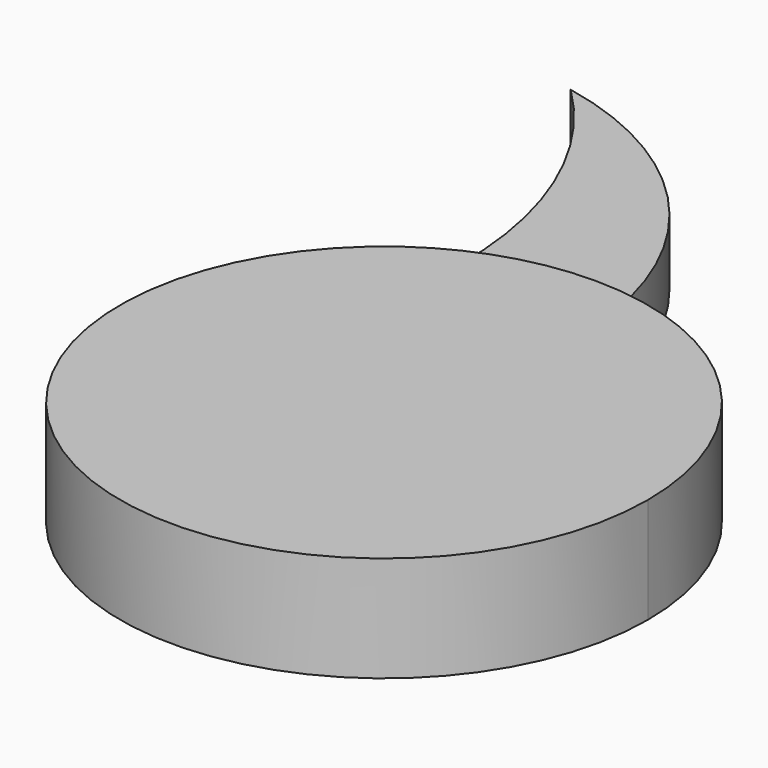
from build123d import *

# Parameters (mm, degrees)
F1_DEPTH = 10.16
F2_DEPTH = 6.35


with BuildPart() as f1:
    # F0 (on Top) → F1 (new body)
    with BuildSketch(Plane.XY):
        with BuildLine():
            ThreePointArc((-14.726522, 20.695158), (-11.64273, -22.574473), (25.4, 0))
            ThreePointArc((25.4, 0), (17.960512, 17.960512), (0, 25.4))
            ThreePointArc((0, 25.4), (-7.729909, 24.195217), (-14.726522, 20.695158))
        make_face()
    extrude(amount=F1_DEPTH)


with BuildPart() as f2:
    # F0 (on Top) → F2 (new body)
    with BuildSketch(Plane.XY):
        with BuildLine():
            ThreePointArc((-14.726522, 20.695158), (-7.729909, 24.195217), (0, 25.4))
            ThreePointArc((0, 25.4), (-7.850271, 44.106387), (-25.423421, 54.242466))
            ThreePointArc((-25.423421, 54.242466), (-15.953038, 38.783132), (-14.726522, 20.695158))
        make_face()
    extrude(amount=F2_DEPTH)


solid = Compound([f1.part, f2.part])
